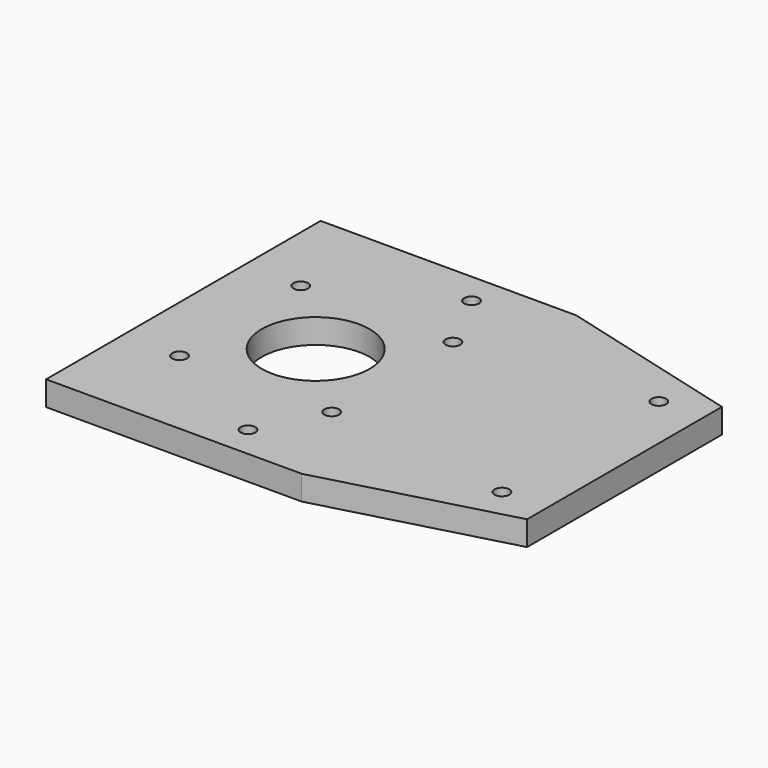
from build123d import *

# Parameters (mm, degrees)
F0_W      = 90
F0_H      = 70
F0_R      = 1.5
F2_DEPTH  = 5
F4_D      = 3
F5_D      = 11.5
F7_DEPTH  = 5
F9_DEPTH  = 0.1
F10_R     = 11
F10_R_2   = 5.75
F11_DEPTH = 5.001
F13_DEPTH = 5.001


with BuildPart() as f2:
    # F0 (on Top) → F2 (new body)
    with BuildSketch(Plane.XY):
        Rectangle(F0_W, F0_H)
        with Locations((-9, -28.5)):
            Circle(F0_R, mode=Mode.SUBTRACT)
        with Locations((36, -20)):
            Circle(F0_R, mode=Mode.SUBTRACT)
        with Locations((-9, 28.5)):
            Circle(F0_R, mode=Mode.SUBTRACT)
        with Locations((36, 20)):
            Circle(F0_R, mode=Mode.SUBTRACT)
    extrude(amount=F2_DEPTH)

    # F4 (through all)
    with Locations(Plane.XY.offset(5)):
        with Locations((-2.420886, 15.522152), (-2.420886, -15.379748), (-33.465192, -15.379748), (-33.465192, 15.522152)):
            Hole(F4_D / 2)

    # F5 (through all)
    with Locations(Plane(origin=(0, 0, 0), x_dir=(1, 0, 0), z_dir=(0, 0, -1))):
        with Locations((-18, 0)):
            Hole(F5_D / 2)

    # F6 (on face) → F7 (cut)
    with BuildSketch(Plane.XY.offset(5)):
        Polygon((7.15526, 35), (45, 24.844227), (45, 35), align=None)
    extrude(amount=-F7_DEPTH, mode=Mode.SUBTRACT)

    # F8 (on face) → F9 (cut)
    with BuildSketch(Plane.XY.offset(5)):
        Polygon((45, -25.128944), (7.019877, -35), (45, -35), align=None)
    extrude(amount=F9_DEPTH, mode=Mode.SUBTRACT)

    # F10 (on face) → F11 (cut, through all)
    with BuildSketch(Plane.XY.offset(5)):
        with Locations((-18, 0)):
            Circle(F10_R)
        with Locations((-18, 0)):
            Circle(F10_R_2, mode=Mode.SUBTRACT)
    extrude(amount=-F11_DEPTH, mode=Mode.SUBTRACT)

    # F12 (on face) → F13 (cut, through all)
    with BuildSketch(Plane.XY.offset(5)):
        Polygon((45, -24.844), (7.15526, -35), (45, -35), align=None)
    extrude(amount=-F13_DEPTH, mode=Mode.SUBTRACT)


solid = f2.part
